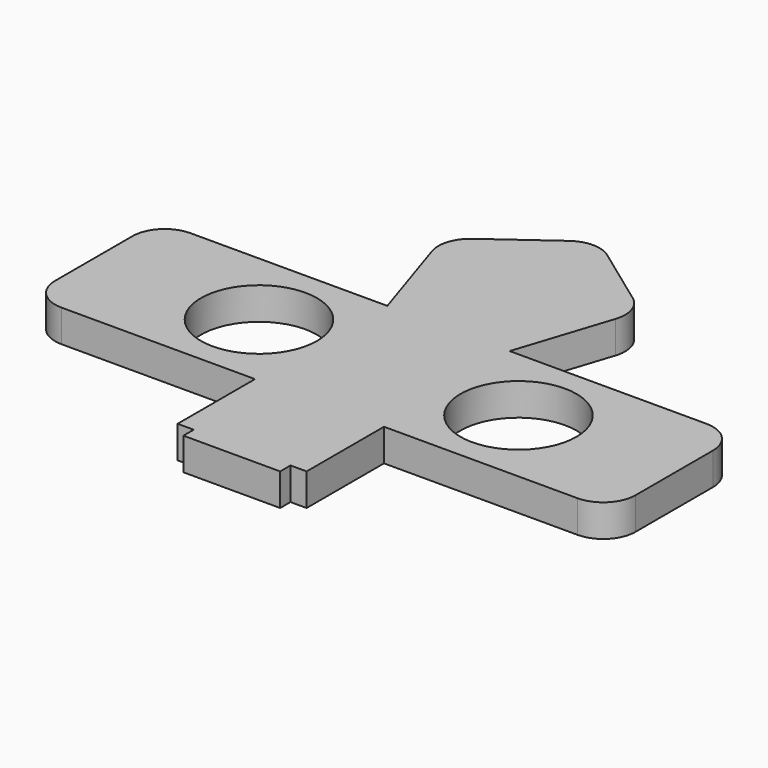
from build123d import *

# Parameters (mm, degrees)
F0_R     = 9
F0_W     = 15
F0_H     = 2
F1_DEPTH = 5


with BuildPart() as f1:
    # F0 (on Top) → F1 (new body)
    with BuildSketch(Plane.XY):
        with BuildLine():
            Line((-9.487151, 12.5), (-40, 12.5))
            ThreePointArc((-40, 12.5), (-43.535534, 11.035534), (-45, 7.5))
            Line((-45, 7.5), (-45, -7.5))
            ThreePointArc((-45, -7.5), (-43.535534, -11.035534), (-40, -12.5))
            Line((-40, -12.5), (-10, -12.5))
            Line((-10, -12.5), (10, -12.5))
            Line((10, -12.5), (40, -12.5))
            ThreePointArc((40, -12.5), (43.535534, -11.035534), (45, -7.5))
            Line((45, -7.5), (45, 7.5))
            ThreePointArc((45, 7.5), (43.535534, 11.035534), (40, 12.5))
            Line((40, 12.5), (9.487151, 12.5))
            Line((9.487151, 12.5), (-9.487151, 12.5))
        make_face()
        with Locations((-19.38206, 0)):
            Circle(F0_R, mode=Mode.SUBTRACT)
        with Locations((20.852027, 0)):
            Circle(F0_R, mode=Mode.SUBTRACT)
        with BuildLine():
            Line((-14.227962, 27.090718), (-9.487151, 12.5))
            Line((-9.487151, 12.5), (9.487151, 12.5))
            Line((9.487151, 12.5), (14.227962, 27.090718))
            ThreePointArc((14.227962, 27.090718), (14.227962, 30.180888), (12.411606, 32.680888))
            Line((12.411606, 32.680888), (2.938926, 39.563193))
            ThreePointArc((2.938926, 39.563193), (0, 40.518108), (-2.938926, 39.563193))
            Line((-2.938926, 39.563193), (-12.411606, 32.680888))
            ThreePointArc((-12.411606, 32.680888), (-14.227962, 30.180888), (-14.227962, 27.090718))
        make_face()
        Polygon((10, -12.5), (-10, -12.5), (-10, -27.5), (-7.5, -27.5), (7.5, -27.5), (10, -27.5), align=None)
        with Locations((0, -28.5)):
            Rectangle(F0_W, F0_H)
    extrude(amount=F1_DEPTH)


solid = f1.part
